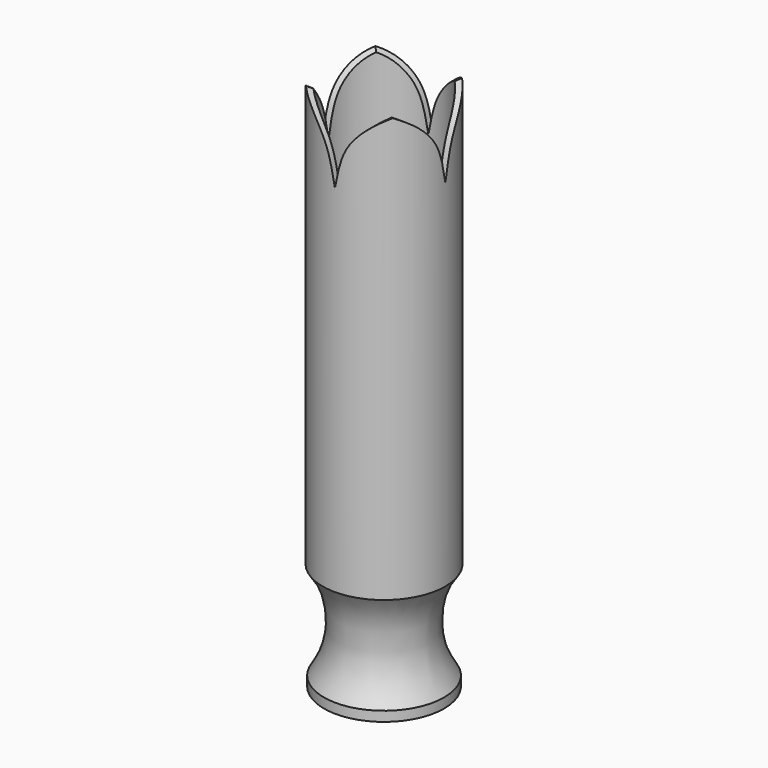
from build123d import *

# Parameters (mm, degrees)
F2_T     = -0.762
F4_DEPTH = 12.7
F5_ANGLE = 90


with BuildPart() as f1:
    # F0 (on Front) → F1 (revolve)
    with BuildSketch(Plane.XZ):
        with BuildLine():
            Line((7.9375, 69.85), (0, 69.85))
            Line((0, 69.85), (0, 0))
            Line((0, 0), (7.7708007302, 0))
            Line((7.7708007302, 0), (7.7708007302, 1.27))
            add(Edge.make_bspline(
                [(7.9375, 13.9687121466), (6.3759297263, 12.0757446615), (5.4053572498, 7.173065758), (6.3573190014, 3.5945907536), (7.7708007302, 1.27)],
                knots=[0, 0, 0, 0, 0.5072866606, 1, 1, 1, 1], degree=3))
            Line((7.9375, 13.9687121466), (7.9375, 69.85))
        make_face()
    revolve(axis=Axis((0, 0, 34.925), (0, 0, 1)))

    # F2
    f2_openings = [f1.faces().sort_by_distance(p)[0] for p in [
        (0, 0, 69.85),
        (0, 0, 0),
    ]]
    offset(amount=F2_T, openings=f2_openings)


with BuildPart() as f4:
    # F3 (on Front) → F4 (new body, symmetric)
    with BuildSketch(Plane.XZ):
        with BuildLine():
            Line((7.9375, 69.85), (-7.9375, 69.85))
            add(Edge.make_bspline(
                [(-7.9375, 69.85), (-5.0659229778, 68.8424609817), (-1.593559541, 66.0097246929), (-0.5996672651, 63.2812711247), (0, 59.9668696523)],
                knots=[0, 0, 0, 0, 0.5105196443, 1, 1, 1, 1], degree=3))
            add(Edge.make_bspline(
                [(7.9375, 69.85), (5.0659229778, 68.8424609817), (1.593559541, 66.0097246929), (0.5996672651, 63.2812711247), (0, 59.9668696523)],
                knots=[0, 0, 0, 0, 0.5105196443, 1, 1, 1, 1], degree=3))
        make_face()
    extrude(amount=F4_DEPTH, both=True)


with BuildPart() as f5_1:
    # F5: copy of F4
    add(f4.part.rotate(Axis((0, 0, 69.85), (0, 0, 1)), F5_ANGLE))


with BuildPart() as f1_1:
    add(f1.part)

    # F6: cut F5_1, F4
    add(f5_1.part, mode=Mode.SUBTRACT)
    add(f4.part, mode=Mode.SUBTRACT)


solid = f1_1.part
